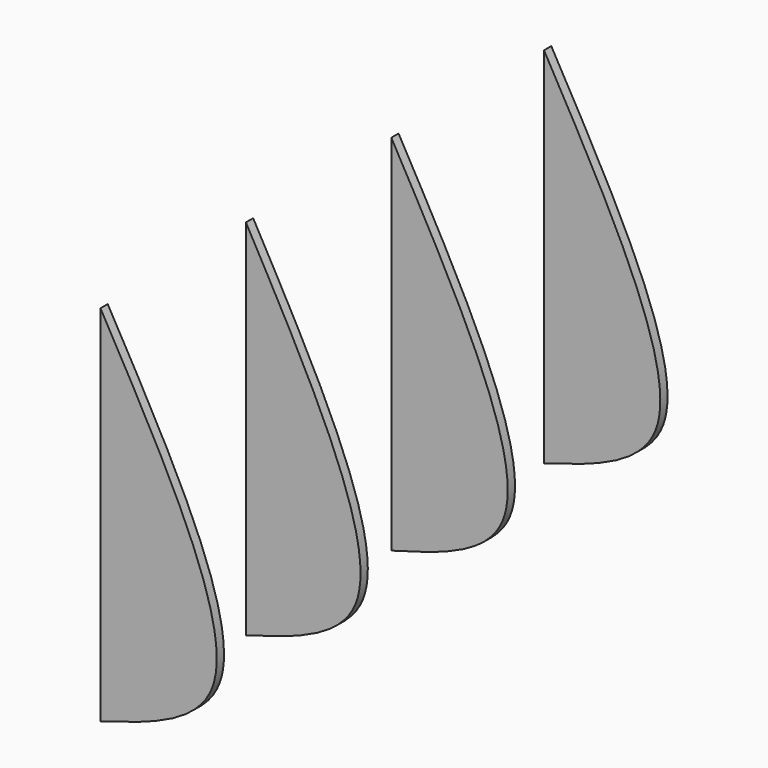
from build123d import *

# Parameters (mm, degrees)
F7_DEPTH  = 1.27
F8_DEPTH  = 1.27
F9_DEPTH  = 1.27
F10_DEPTH = 1.27


with BuildPart() as f7:
    # F6 (on offset) → F7 (new body)
    with BuildSketch(Plane.XZ.offset(50.8)):
        with BuildLine():
            Line((0, 28.2086534786), (0, -22.5913465214))
            add(Edge.make_bspline(
                [(0, -22.5913465214), (6.9215770732, -20.5578935876), (24.592143562, -15.3665528153), (9.301365994, 11.7274166566), (0, 28.2086534786)],
                knots=[0, 0, 0, 0, 0.3917009156, 1, 1, 1, 1], degree=3))
        make_face()
    extrude(amount=F7_DEPTH)


with BuildPart() as f8:
    # F4 (on offset) → F8 (new body)
    with BuildSketch(Plane.XZ.offset(-25.4)):
        with BuildLine():
            Line((0, 28.4528839136), (0, -22.3471160864))
            add(Edge.make_bspline(
                [(0, -22.3471160864), (6.9216263577, -20.3132058989), (24.5920011472, -15.1207910756), (9.3012452111, 11.9723448393), (0, 28.4528839136)],
                knots=[0, 0, 0, 0, 0.3917079541, 1, 1, 1, 1], degree=3))
        make_face()
    extrude(amount=-F8_DEPTH)


with BuildPart() as f9:
    # F0 (on Front) → F9 (new body)
    with BuildSketch(Plane.XZ):
        with BuildLine():
            Line((0, 28.5458717371), (0, -22.2541282629))
            add(Edge.make_bspline(
                [(0, -22.2541282629), (6.9077151611, -20.3491349985), (24.6318359356, -15.4612191093), (9.3350740929, 11.8678841629), (0, 28.5458717371)],
                knots=[0, 0, 0, 0, 0.3897352793, 1, 1, 1, 1], degree=3))
        make_face()
    extrude(amount=F9_DEPTH)


with BuildPart() as f10:
    # F2 (on offset) → F10 (new body)
    with BuildSketch(Plane.XZ.offset(25.4)):
        with BuildLine():
            Line((0, 28.4528839136), (0, -22.3471160864))
            add(Edge.make_bspline(
                [(0, -22.3471160864), (6.7955129572, -20.3949767035), (24.2594154309, -15.3781410338), (9.199708767, 11.8311864277), (0, 28.4528839136)],
                knots=[0, 0, 0, 0, 0.3891176653, 1, 1, 1, 1], degree=3))
        make_face()
    extrude(amount=F10_DEPTH)


solid = Compound([f7.part, f8.part, f9.part, f10.part])
